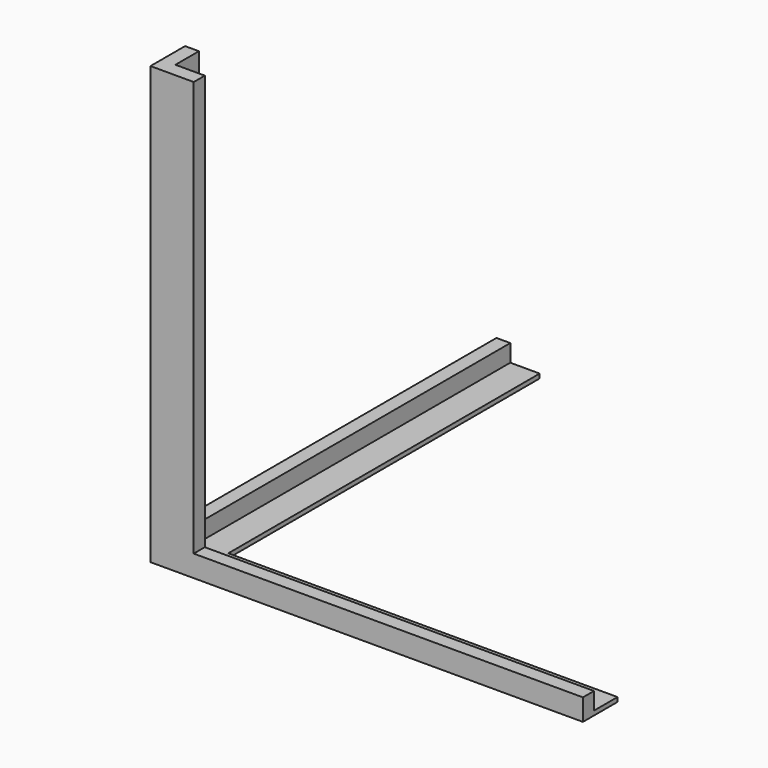
from build123d import *

# Parameters (mm, degrees)
F0_W     = 3.2
F0_H     = 90
F0_W_2   = 90
F0_H_2   = 3.2
F1_DEPTH = 1
F2_DEPTH = 4
F3_DEPTH = 100


with BuildPart() as f1:
    # F0 (on Top) → F1 (new body)
    with BuildSketch(Plane.XY):
        with Locations((-34.457693, 13.804672)):
            Rectangle(F0_W, F0_H)
        Polygon((-32.857693, -31.195328), (-36.057693, -31.195328), (-36.057693, -41.195328), (-26.057693, -41.195328), (-26.057693, -37.995328), (-32.857693, -37.995328), align=None)
        Polygon((-26.057693, 58.804672), (-32.857693, 58.804672), (-32.857693, -31.195328), (-26.057693, -37.995328), (63.942307, -37.995328), (63.942307, -31.195328), (-26.057693, -31.195328), align=None)
        with Locations((18.942307, -39.595328)):
            Rectangle(F0_W_2, F0_H_2)
        Polygon((-26.057693, -37.995328), (-32.857693, -31.195328), (-32.857693, -37.995328), align=None)
    extrude(amount=-F1_DEPTH)

    # F0 (on Top) → F2 (join)
    with BuildSketch(Plane.XY):
        with Locations((-34.457693, 13.804672)):
            Rectangle(F0_W, F0_H)
        Polygon((-32.857693, -31.195328), (-36.057693, -31.195328), (-36.057693, -41.195328), (-26.057693, -41.195328), (-26.057693, -37.995328), (-32.857693, -37.995328), align=None)
        with Locations((18.942307, -39.595328)):
            Rectangle(F0_W_2, F0_H_2)
    extrude(amount=F2_DEPTH)

    # F0 (on Top) → F3 (join)
    with BuildSketch(Plane.XY):
        Polygon((-32.857693, -31.195328), (-36.057693, -31.195328), (-36.057693, -41.195328), (-26.057693, -41.195328), (-26.057693, -37.995328), (-32.857693, -37.995328), align=None)
    extrude(amount=F3_DEPTH)


solid = f1.part
